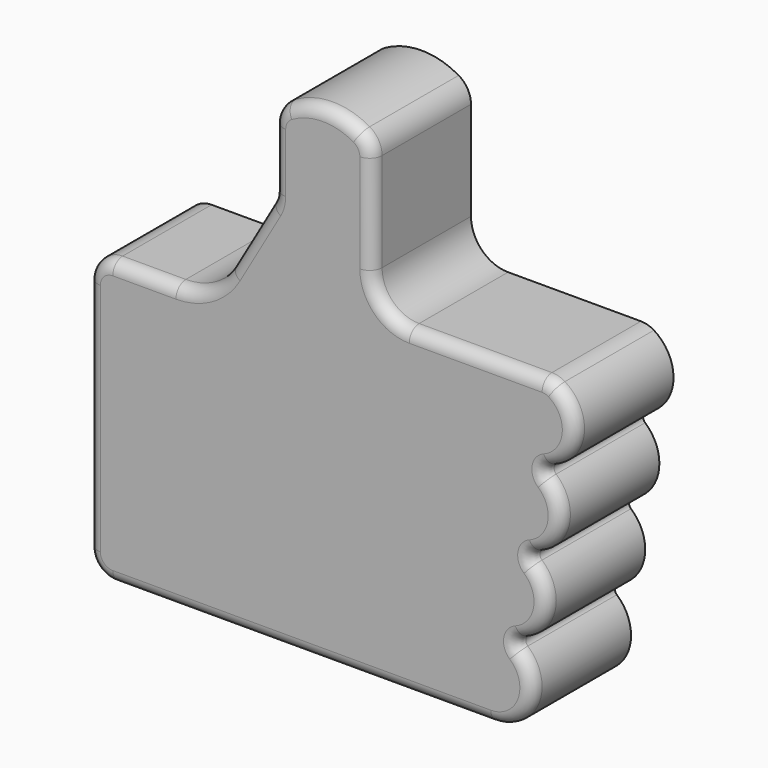
from build123d import *

# Parameters (mm, degrees)
F1_DEPTH = 10
F2_R     = 2
F3_R     = 9.75
F4_DEPTH = 3
F5_R     = 0.5
F6_R     = 1


with BuildPart() as f1:
    # F0 (on Front) → F1 (new body)
    with BuildSketch(Plane.XZ):
        with BuildLine():
            Line((0, 23), (0, 0))
            Line((0, 0), (32.603637, 0))
            ThreePointArc((32.603637, 0), (35.903773, 2.769143), (33.749762, 6.5))
            ThreePointArc((33.749762, 6.5), (37.049899, 9.269143), (34.895887, 13))
            ThreePointArc((34.895887, 13), (38.196024, 15.769143), (36.042013, 19.5))
            ThreePointArc((36.042013, 19.5), (39.342149, 22.269143), (37.188138, 26))
            Line((37.188138, 26), (26, 26))
            ThreePointArc((26, 26), (23.87868, 26.87868), (23, 29))
            Line((23, 29), (23, 38))
            ThreePointArc((23, 38), (19, 39.527864), (15, 38))
            Line((15, 38), (15, 31.660254))
            Line((15, 31.660254), (11.443376, 25.5))
            ThreePointArc((11.443376, 25.5), (9.613249, 23.669873), (7.113249, 23))
            Line((7.113249, 23), (0, 23))
        make_face()
    extrude(amount=F1_DEPTH)

    # F2
    f2_edges = [f1.edges().sort_by_distance(p)[0] for p in [
        (37.188138, -5, 26),
        (23, -5, 38),
        (15, -5, 38),
        (15, -5, 31.660254),
        (0, -5, 23),
        (0, -5, 0),
    ]]
    fillet(f2_edges, radius=F2_R)

    # F3 (on face) → F4 (cut)
    with BuildSketch(Plane(origin=(0, 0, 0), x_dir=(-1, 0, 0), z_dir=(0, 1, 0))):
        with Locations((-18, 13)):
            Circle(F3_R)
    extrude(amount=-F4_DEPTH, mode=Mode.SUBTRACT)

    # F5
    f5_edges = [f1.edges().sort_by_distance(p)[0] for p in [
        (33.749762, -5, 6.5),
        (34.895887, -5, 13),
        (36.042013, -5, 19.5),
    ]]
    fillet(f5_edges, radius=F5_R)

    # F6
    f6_edges = [f1.edges().sort_by_distance(p)[0] for p in [
        (35.742216, -10, 2.176809),
        (34.638998, -10, 6.343204),
        (17.301818, -10, 0),
        (37.049899, -10, 9.269143),
        (0.585786, -10, 0.585786),
        (35.785124, -10, 12.843204),
        (0, -10, 11.5),
        (38.196024, -10, 15.769143),
        (0.585786, -10, 22.414214),
        (36.931249, -10, 19.343204),
        (4.556624, -10, 23),
        (39.378411, -10, 22.538066),
        (9.613249, -10, 23.669873),
        (37.299769, -10, 25.923755),
        (13.087713, -10, 28.348076),
        (31.376405, -10, 26),
        (14.931852, -10, 31.678514),
        (23.87868, -10, 26.87868),
        (15, -10, 34.594059),
        (23, -10, 32.995983),
        (15.267949, -10, 37.991966),
        (22.732051, -10, 37.991966),
        (19, -10, 39.527864),
    ]]
    fillet(f6_edges, radius=F6_R)


solid = f1.part
